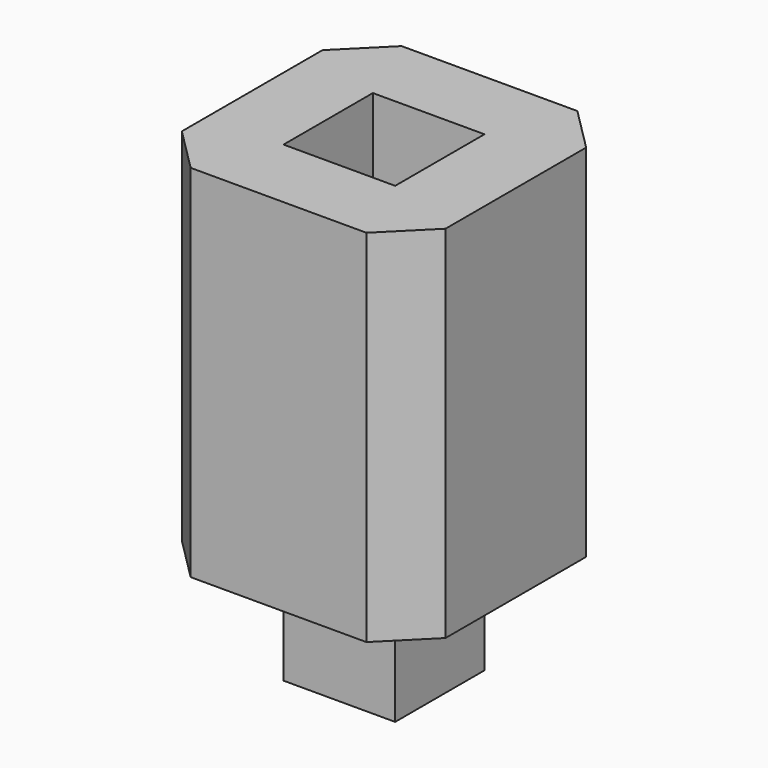
from build123d import *

# Parameters (mm, degrees)
F0_W     = 60
F0_H     = 60
F1_DEPTH = 82
F2_SIZE  = 10
F3_W     = 25.4
F3_H     = 25.4
F4_DEPTH = 25.4
F5_W     = 25.4
F5_H     = 25.4
F6_DEPTH = 25.4


with BuildPart() as f1:
    # F0 (on Top) → F1 (new body)
    with BuildSketch(Plane.XY):
        Rectangle(F0_W, F0_H)
    extrude(amount=F1_DEPTH)

    # F2
    f2_edges = [f1.edges().sort_by_distance(p)[0] for p in [
        (30, -30, 41),
        (30, 30, 41),
        (-30, -30, 41),
        (-30, 30, 41),
    ]]
    chamfer(f2_edges, length=F2_SIZE)

    # F3 (on face) → F4 (cut)
    with BuildSketch(Plane.XY.offset(82)):
        Rectangle(F3_W, F3_H)
    extrude(amount=-F4_DEPTH, mode=Mode.SUBTRACT)

    # F5 (on face) → F6 (join)
    with BuildSketch(Plane(origin=(0, 0, 0), x_dir=(1, 0, 0), z_dir=(0, 0, -1))):
        Rectangle(F5_W, F5_H)
    extrude(amount=F6_DEPTH)


solid = f1.part
